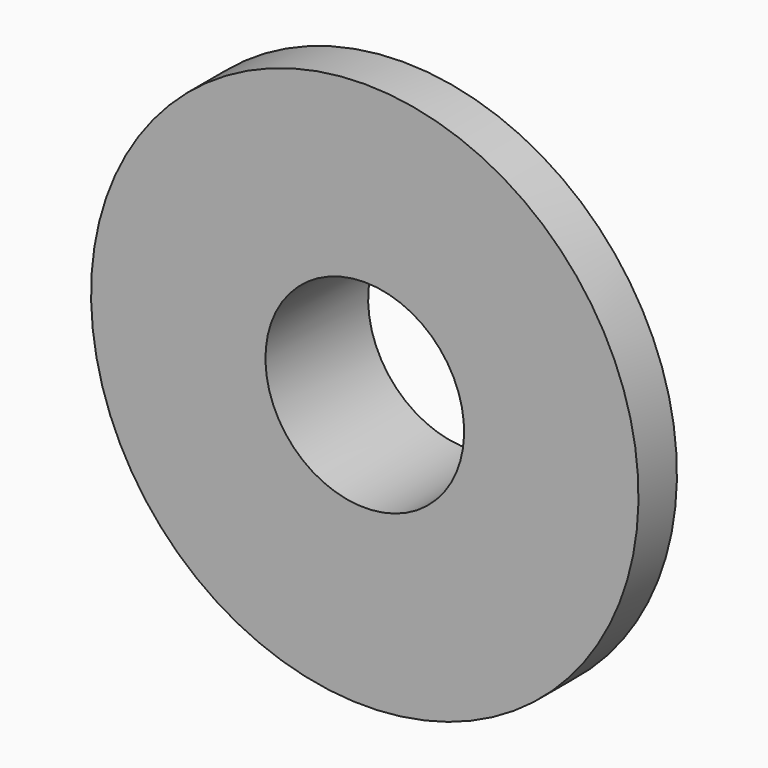
from build123d import *

# Parameters (mm, degrees)
F0_W   = 5.5158194155
F0_H   = 11.5931890905
F0_W_2 = 9.2150960118
F0_H_2 = 8.4223998711


with BuildPart() as f1:
    # F0 (on Right) → F1 (revolve)
    with BuildSketch(Plane.YZ):
        with Locations((2.7579097077, 25.6191734225)):
            Rectangle(F0_W, F0_H)
        with Locations((10.1233674213, 15.6113789417)):
            Rectangle(F0_W_2, F0_H_2)
        with Locations((2.7579097077, 15.6113789417)):
            Rectangle(F0_W, F0_H_2)
    revolve(axis=Axis((0, 7.3488708586, 0), (0, 1, 0)))


solid = f1.part
